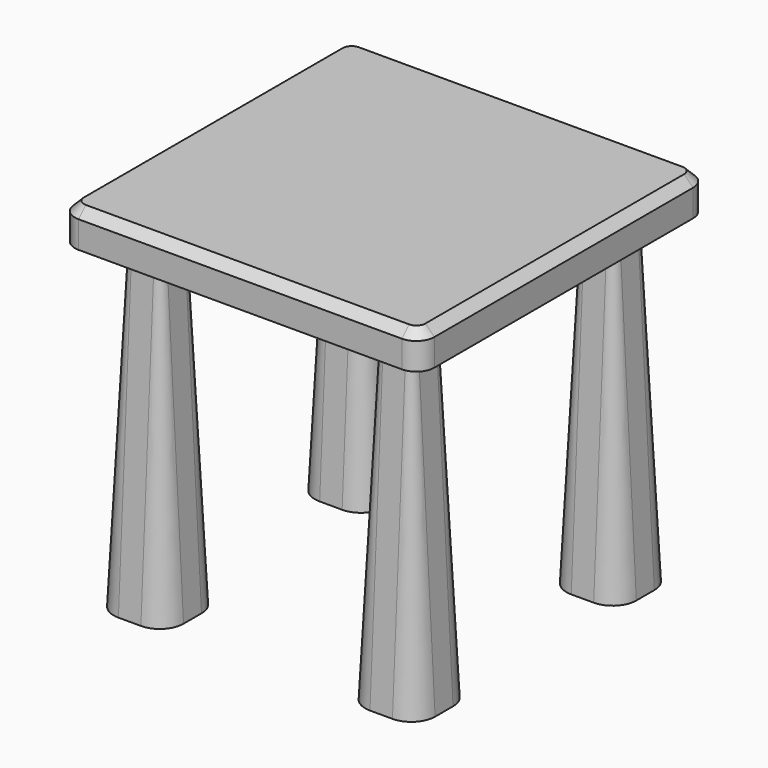
from build123d import *

# Parameters (mm, degrees)
F1_DEPTH = 40
F3_DEPTH = 360
F3_TAPER = -3
F4_SIZE  = 10


with BuildPart() as f1:
    # F0 (on Top) → F1 (new body)
    with BuildSketch(Plane.XY):
        with BuildLine():
            Line((348.3026485145, 356.2960825861), (-11.6973514855, 356.2960825861))
            ThreePointArc((-11.6973514855, 356.2960825861), (-25.8394871092, 350.4382182098), (-31.6973514855, 336.2960825861))
            Line((-31.6973514855, 336.2960825861), (-31.6973514855, -23.7039174139))
            ThreePointArc((-31.6973514855, -23.7039174139), (-25.8394871092, -37.8460530377), (-11.6973514855, -43.7039174139))
            Line((-11.6973514855, -43.7039174139), (348.3026485145, -43.7039174139))
            ThreePointArc((348.3026485145, -43.7039174139), (362.4447841382, -37.8460530377), (368.3026485145, -23.7039174139))
            Line((368.3026485145, -23.7039174139), (368.3026485145, 336.2960825861))
            ThreePointArc((368.3026485145, 336.2960825861), (362.4447841382, 350.4382182098), (348.3026485145, 356.2960825861))
        make_face()
    extrude(amount=F1_DEPTH)

    # F2 (on face) → F3 (join)
    with BuildSketch(Plane(origin=(0, 0, 0), x_dir=(1, 0, 0), z_dir=(0, 0, -1))):
        with BuildLine():
            Line((40.8026485145, 3.7039174139), (15.8026485145, 3.7039174139))
            ThreePointArc((15.8026485145, 3.7039174139), (10.4993476556, 1.5072182728), (8.3026485145, -3.7960825861))
            Line((8.3026485145, -3.7960825861), (8.3026485145, -28.7960825861))
            ThreePointArc((8.3026485145, -28.7960825861), (10.4993476556, -34.0993834449), (15.8026485145, -36.2960825861))
            Line((15.8026485145, -36.2960825861), (40.8026485145, -36.2960825861))
            ThreePointArc((40.8026485145, -36.2960825861), (46.1059493734, -34.0993834449), (48.3026485145, -28.7960825861))
            Line((48.3026485145, -28.7960825861), (48.3026485145, -3.7960825861))
            ThreePointArc((48.3026485145, -3.7960825861), (46.1059493734, 1.5072182728), (40.8026485145, 3.7039174139))
        make_face()
        with BuildLine():
            ThreePointArc((288.3026485145, -28.7960825861), (290.4993476556, -34.0993834449), (295.8026485145, -36.2960825861))
            Line((295.8026485145, -36.2960825861), (320.8026485145, -36.2960825861))
            ThreePointArc((320.8026485145, -36.2960825861), (326.1059493734, -34.0993834449), (328.3026485145, -28.7960825861))
            Line((328.3026485145, -28.7960825861), (328.3026485145, -3.7960825861))
            ThreePointArc((328.3026485145, -3.7960825861), (326.1059493734, 1.5072182728), (320.8026485145, 3.7039174139))
            Line((320.8026485145, 3.7039174139), (295.8026485145, 3.7039174139))
            ThreePointArc((295.8026485145, 3.7039174139), (290.4993476556, 1.5072182728), (288.3026485145, -3.7960825861))
            Line((288.3026485145, -3.7960825861), (288.3026485145, -28.7960825861))
        make_face()
        with BuildLine():
            ThreePointArc((288.3026485145, -308.7960825861), (290.4993476556, -314.0993834449), (295.8026485145, -316.2960825861))
            Line((295.8026485145, -316.2960825861), (320.8026485145, -316.2960825861))
            ThreePointArc((320.8026485145, -316.2960825861), (326.1059493734, -314.0993834449), (328.3026485145, -308.7960825861))
            Line((328.3026485145, -308.7960825861), (328.3026485145, -283.7960825861))
            ThreePointArc((328.3026485145, -283.7960825861), (326.1059493734, -278.4927817272), (320.8026485145, -276.2960825861))
            Line((320.8026485145, -276.2960825861), (295.8026485145, -276.2960825861))
            ThreePointArc((295.8026485145, -276.2960825861), (290.4993476556, -278.4927817272), (288.3026485145, -283.7960825861))
            Line((288.3026485145, -283.7960825861), (288.3026485145, -308.7960825861))
        make_face()
        with BuildLine():
            ThreePointArc((8.3026485145, -308.7960825861), (10.4993476556, -314.0993834449), (15.8026485145, -316.2960825861))
            Line((15.8026485145, -316.2960825861), (40.8026485145, -316.2960825861))
            ThreePointArc((40.8026485145, -316.2960825861), (46.1059493734, -314.0993834449), (48.3026485145, -308.7960825861))
            Line((48.3026485145, -308.7960825861), (48.3026485145, -283.7960825861))
            ThreePointArc((48.3026485145, -283.7960825861), (46.1059493734, -278.4927817272), (40.8026485145, -276.2960825861))
            Line((40.8026485145, -276.2960825861), (15.8026485145, -276.2960825861))
            ThreePointArc((15.8026485145, -276.2960825861), (10.4993476556, -278.4927817272), (8.3026485145, -283.7960825861))
            Line((8.3026485145, -283.7960825861), (8.3026485145, -308.7960825861))
        make_face()
    extrude(amount=F3_DEPTH, taper=F3_TAPER)

    # F4
    f4_edges = [f1.edges().sort_by_distance(p)[0] for p in [
        (368.302649, 156.296083, 40),
        (362.444784, 350.438218, 40),
        (168.302649, 356.296083, 40),
        (-25.839487, 350.438218, 40),
        (-31.697351, 156.296083, 40),
        (-25.839487, -37.846053, 40),
        (168.302649, -43.703917, 40),
        (362.444784, -37.846053, 40),
    ]]
    chamfer(f4_edges, length=F4_SIZE)


solid = f1.part
